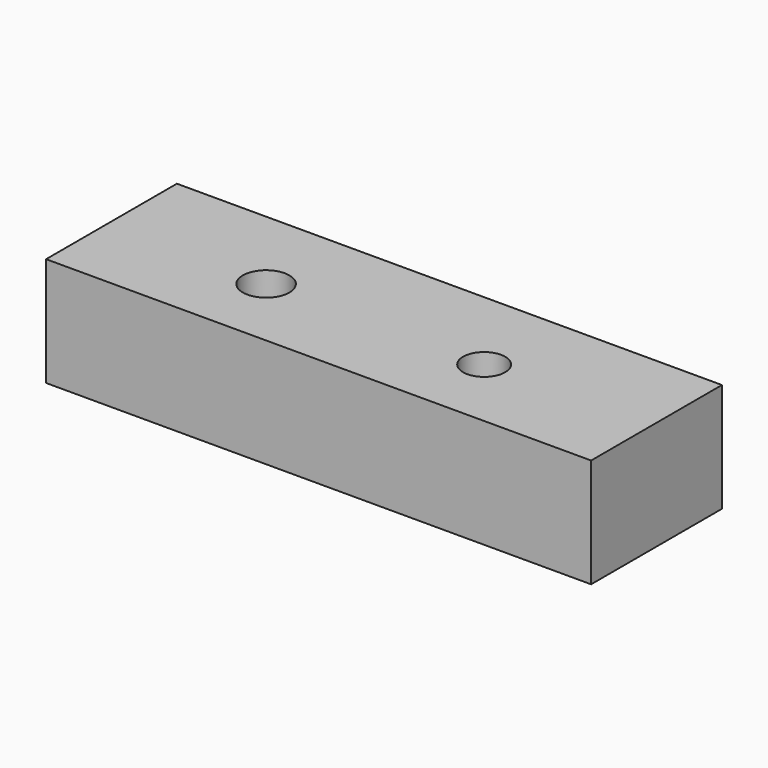
from build123d import *

# Parameters (mm, degrees)
F0_W        = 100
F0_H        = 30
F0_R        = 4.26836
F0_R_2      = 3.862115
F1_DEPTH    = 19.6
F1_FACE_W   = 100
F1_FACE_H   = 30
F1_FACE_R   = 4.26836
F1_FACE_R_2 = 3.862115
F2_DEPTH    = 0.4


with BuildPart() as f1:
    # F0 (on Top) → F1 (new body)
    with BuildSketch(Plane.XY):
        with Locations((0.58333, 1.309117)):
            Rectangle(F0_W, F0_H)
        with Locations((-20, 0)):
            Circle(F0_R, mode=Mode.SUBTRACT)
        with Locations((20, 0)):
            Circle(F0_R_2, mode=Mode.SUBTRACT)
    extrude(amount=F1_DEPTH)

    # F1_face (on face) → F2 (join)
    with BuildSketch(Plane(origin=(0.675962, 1.356174, 19.6), x_dir=(1, 0, 0), z_dir=(0, 0, 1))):
        with Locations((-0.092632, -0.047057)):
            Rectangle(F1_FACE_W, F1_FACE_H)
        with Locations((-20.675962, -1.356174)):
            Circle(F1_FACE_R, mode=Mode.SUBTRACT)
        with Locations((19.324038, -1.356174)):
            Circle(F1_FACE_R_2, mode=Mode.SUBTRACT)
    extrude(amount=F2_DEPTH)


solid = f1.part
